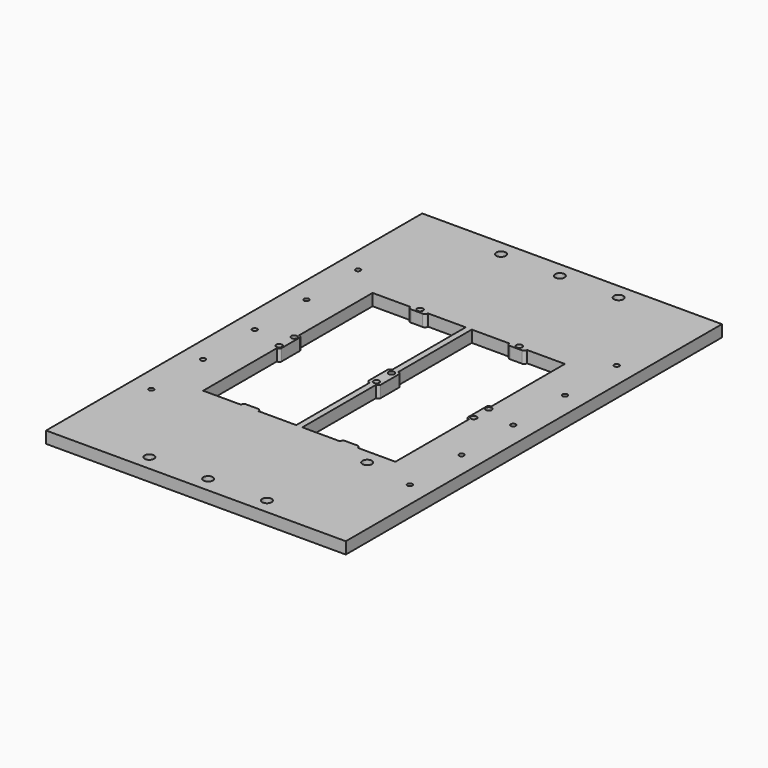
from build123d import *

# Parameters (mm, degrees)
F0_W     = 255
F0_H     = 400
F0_R     = 2.1
F0_R_2   = 4
F0_R_3   = 2.5
F1_DEPTH = 10
F2_R     = 4
F3_DEPTH = 10.001


with BuildPart() as f1:
    # F0 (on Top) → F1 (new body)
    with BuildSketch(Plane.XY):
        Rectangle(F0_W, F0_H)
        with Locations((-110, -110)):
            Circle(F0_R, mode=Mode.SUBTRACT)
        with Locations((-50, -187)):
            Circle(F0_R_2, mode=Mode.SUBTRACT)
        with Locations((-110, -55)):
            Circle(F0_R, mode=Mode.SUBTRACT)
        with Locations((0, -187)):
            Circle(F0_R_2, mode=Mode.SUBTRACT)
        with Locations((50, -187)):
            Circle(F0_R_2, mode=Mode.SUBTRACT)
        with Locations((110, -110)):
            Circle(F0_R, mode=Mode.SUBTRACT)
        with Locations((0, -8)):
            Circle(F0_R_3, mode=Mode.SUBTRACT)
        with Locations((110, -55)):
            Circle(F0_R, mode=Mode.SUBTRACT)
        with Locations((-110, 0)):
            Circle(F0_R, mode=Mode.SUBTRACT)
        with Locations((-110, 55)):
            Circle(F0_R, mode=Mode.SUBTRACT)
        with BuildLine():
            Line((-34.7, 90.1), (-2.6, 90.1))
            Line((-2.6, 90.1), (-2.6, 11.8))
            Line((-2.6, 11.8), (-2.6, -11.8))
            Line((-2.6, -11.8), (-2.6, -90.1))
            Line((-2.6, -90.1), (-34.7, -90.1))
            Line((-34.7, -90.1), (-49.7, -90.1))
            Line((-49.7, -90.1), (-81.8, -90.1))
            Line((-81.8, -90.1), (-81.8, -11.8))
            Line((-81.8, -11.8), (-81.8, -10.291288))
            ThreePointArc((-81.8, -10.291288), (-85.3, -8), (-81.8, -5.708712))
            Line((-81.8, -5.708712), (-81.8, 5.708712))
            ThreePointArc((-81.8, 5.708712), (-85.3, 8), (-81.8, 10.291288))
            Line((-81.8, 10.291288), (-81.8, 11.8))
            Line((-81.8, 11.8), (-81.8, 90.1))
            Line((-81.8, 90.1), (-49.7, 90.1))
            Line((-49.7, 90.1), (-44.491288, 90.1))
            ThreePointArc((-44.491288, 90.1), (-42.710774, 93.547266), (-39.7, 91.1))
            ThreePointArc((-39.7, 91.1), (-39.752734, 90.589226), (-39.908712, 90.1))
            Line((-39.908712, 90.1), (-34.7, 90.1))
        make_face(mode=Mode.SUBTRACT)
        with Locations((-110, 110)):
            Circle(F0_R, mode=Mode.SUBTRACT)
        with Locations((-50, 187)):
            Circle(F0_R_2, mode=Mode.SUBTRACT)
        with Locations((0, 8)):
            Circle(F0_R_3, mode=Mode.SUBTRACT)
        with BuildLine():
            Line((2.6, 11.8), (2.6, 90.1))
            Line((2.6, 90.1), (34.7, 90.1))
            Line((34.7, 90.1), (39.908712, 90.1))
            ThreePointArc((39.908712, 90.1), (41.689226, 93.547266), (44.7, 91.1))
            ThreePointArc((44.7, 91.1), (44.647266, 90.589226), (44.491288, 90.1))
            Line((44.491288, 90.1), (49.7, 90.1))
            Line((49.7, 90.1), (81.8, 90.1))
            Line((81.8, 90.1), (81.8, 11.8))
            Line((81.8, 11.8), (81.8, 10.291288))
            ThreePointArc((81.8, 10.291288), (84.169306, 10.09165), (85.3, 8))
            ThreePointArc((85.3, 8), (84.169306, 5.90835), (81.8, 5.708712))
            Line((81.8, 5.708712), (81.8, -5.708712))
            ThreePointArc((81.8, -5.708712), (84.169306, -5.90835), (85.3, -8))
            ThreePointArc((85.3, -8), (84.169306, -10.09165), (81.8, -10.291288))
            Line((81.8, -10.291288), (81.8, -11.8))
            Line((81.8, -11.8), (81.8, -90.1))
            Line((81.8, -90.1), (49.7, -90.1))
            Line((49.7, -90.1), (34.7, -90.1))
            Line((34.7, -90.1), (2.6, -90.1))
            Line((2.6, -90.1), (2.6, -11.8))
            Line((2.6, -11.8), (2.6, 11.8))
        make_face(mode=Mode.SUBTRACT)
        with Locations((110, 0)):
            Circle(F0_R, mode=Mode.SUBTRACT)
        with Locations((110, 55)):
            Circle(F0_R, mode=Mode.SUBTRACT)
        with Locations((0, 187)):
            Circle(F0_R_2, mode=Mode.SUBTRACT)
        with Locations((50, 187)):
            Circle(F0_R_2, mode=Mode.SUBTRACT)
        with Locations((110, 110)):
            Circle(F0_R, mode=Mode.SUBTRACT)
        with BuildLine():
            Line((81.8, 10.291288), (81.8, 11.8))
            ThreePointArc((81.8, 11.8), (80.3, 11.3), (79.4, 10))
            Line((79.4, 10), (79.4, 0))
            Line((79.4, 0), (79.4, -10))
            ThreePointArc((79.4, -10), (80.3, -11.3), (81.8, -11.8))
            Line((81.8, -11.8), (81.8, -10.291288))
            ThreePointArc((81.8, -10.291288), (80.3, -8), (81.8, -5.708712))
            Line((81.8, -5.708712), (81.8, 5.708712))
            ThreePointArc((81.8, 5.708712), (80.3, 8), (81.8, 10.291288))
        make_face()
        with BuildLine():
            Line((39.908712, 90.1), (34.7, 90.1))
            ThreePointArc((34.7, 90.1), (35.432233, 88.332233), (37.2, 87.6))
            Line((37.2, 87.6), (42.2, 87.6))
            Line((42.2, 87.6), (47.2, 87.6))
            ThreePointArc((47.2, 87.6), (48.967767, 88.332233), (49.7, 90.1))
            Line((49.7, 90.1), (44.491288, 90.1))
            ThreePointArc((44.491288, 90.1), (42.2, 88.6), (39.908712, 90.1))
        make_face()
        with BuildLine():
            ThreePointArc((37.2, -87.6), (35.432233, -88.332233), (34.7, -90.1))
            Line((34.7, -90.1), (49.7, -90.1))
            ThreePointArc((49.7, -90.1), (48.967767, -88.332233), (47.2, -87.6))
            Line((47.2, -87.6), (42.2, -87.6))
            Line((42.2, -87.6), (37.2, -87.6))
        make_face()
        with BuildLine():
            ThreePointArc((5, 10), (4.1, 11.3), (2.6, 11.8))
            Line((2.6, 11.8), (2.6, -11.8))
            ThreePointArc((2.6, -11.8), (4.1, -11.3), (5, -10))
            Line((5, -10), (5, 0))
            Line((5, 0), (5, 10))
        make_face()
        with BuildLine():
            Line((-2.6, -11.8), (-2.6, 11.8))
            ThreePointArc((-2.6, 11.8), (-4.1, 11.3), (-5, 10))
            Line((-5, 10), (-5, 0))
            Line((-5, 0), (-5, -10))
            ThreePointArc((-5, -10), (-4.1, -11.3), (-2.6, -11.8))
        make_face()
        with BuildLine():
            ThreePointArc((-79.4, 10), (-80.3, 11.3), (-81.8, 11.8))
            Line((-81.8, 11.8), (-81.8, 10.291288))
            ThreePointArc((-81.8, 10.291288), (-80.70835, 9.369306), (-80.3, 8))
            ThreePointArc((-80.3, 8), (-80.70835, 6.630694), (-81.8, 5.708712))
            Line((-81.8, 5.708712), (-81.8, -5.708712))
            ThreePointArc((-81.8, -5.708712), (-80.70835, -6.630694), (-80.3, -8))
            ThreePointArc((-80.3, -8), (-80.70835, -9.369306), (-81.8, -10.291288))
            Line((-81.8, -10.291288), (-81.8, -11.8))
            ThreePointArc((-81.8, -11.8), (-80.3, -11.3), (-79.4, -10))
            Line((-79.4, -10), (-79.4, 0))
            Line((-79.4, 0), (-79.4, 10))
        make_face()
        with BuildLine():
            ThreePointArc((-37.2, 87.6), (-35.432233, 88.332233), (-34.7, 90.1))
            Line((-34.7, 90.1), (-39.908712, 90.1))
            ThreePointArc((-39.908712, 90.1), (-42.2, 88.6), (-44.491288, 90.1))
            Line((-44.491288, 90.1), (-49.7, 90.1))
            ThreePointArc((-49.7, 90.1), (-48.967767, 88.332233), (-47.2, 87.6))
            Line((-47.2, 87.6), (-42.2, 87.6))
            Line((-42.2, 87.6), (-37.2, 87.6))
        make_face()
        with BuildLine():
            Line((-49.7, -90.1), (-34.7, -90.1))
            ThreePointArc((-34.7, -90.1), (-35.432233, -88.332233), (-37.2, -87.6))
            Line((-37.2, -87.6), (-42.2, -87.6))
            Line((-42.2, -87.6), (-47.2, -87.6))
            ThreePointArc((-47.2, -87.6), (-48.967767, -88.332233), (-49.7, -90.1))
        make_face()
    extrude(amount=F1_DEPTH)

    # F2 (on face) → F3 (cut, through all)
    with BuildSketch(Plane.XY.offset(10)):
        with Locations((67.8, -102.6)):
            Circle(F2_R)
    extrude(amount=-F3_DEPTH, mode=Mode.SUBTRACT)


solid = f1.part
